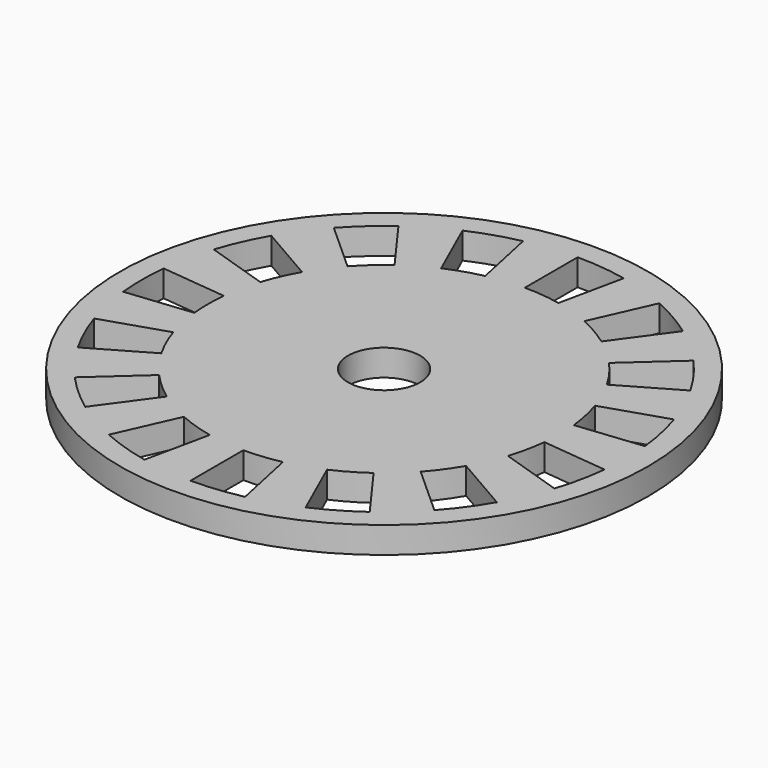
from build123d import *

# Parameters (mm, degrees)
F0_R     = 30
F0_R_2   = 4.1
F1_DEPTH = 3


with BuildPart() as f1:
    # F0 (on Top) → F1 (new body)
    with BuildSketch(Plane.XY):
        Circle(F0_R)
        with BuildLine():
            ThreePointArc((-16.164094, -22.247967), (-18.401092, -20.436483), (-20.436483, -18.401092))
            Line((-20.436483, -18.401092), (-14.862897, -13.382612))
            ThreePointArc((-14.862897, -13.382612), (-13.382612, -14.862897), (-11.755705, -16.18034))
            Line((-11.755705, -16.18034), (-16.164094, -22.247967))
        make_face(mode=Mode.SUBTRACT)
        with BuildLine():
            ThreePointArc((-5.717571, -26.899059), (-8.497967, -26.154054), (-11.185258, -25.1225))
            Line((-11.185258, -25.1225), (-8.134733, -18.270909))
            ThreePointArc((-8.134733, -18.270909), (-6.18034, -19.02113), (-4.158234, -19.562952))
            Line((-4.158234, -19.562952), (-5.717571, -26.899059))
        make_face(mode=Mode.SUBTRACT)
        with BuildLine():
            ThreePointArc((-23.815699, -13.75), (-25.1225, -11.185258), (-26.154054, -8.497967))
            Line((-26.154054, -8.497967), (-19.02113, -6.18034))
            ThreePointArc((-19.02113, -6.18034), (-18.270909, -8.134733), (-17.320508, -10))
            Line((-17.320508, -10), (-23.815699, -13.75))
        make_face(mode=Mode.SUBTRACT)
        with BuildLine():
            ThreePointArc((5.717571, -26.899059), (2.874533, -27.349352), (0, -27.5))
            Line((0, -27.5), (0, -20))
            ThreePointArc((0, -20), (2.090569, -19.890438), (4.158234, -19.562952))
            Line((4.158234, -19.562952), (5.717571, -26.899059))
        make_face(mode=Mode.SUBTRACT)
        with BuildLine():
            ThreePointArc((16.164094, -22.247967), (13.75, -23.815699), (11.185258, -25.1225))
            Line((11.185258, -25.1225), (8.134733, -18.270909))
            ThreePointArc((8.134733, -18.270909), (10, -17.320508), (11.755705, -16.18034))
            Line((11.755705, -16.18034), (16.164094, -22.247967))
        make_face(mode=Mode.SUBTRACT)
        with BuildLine():
            ThreePointArc((23.815699, -13.75), (22.247967, -16.164094), (20.436483, -18.401092))
            Line((20.436483, -18.401092), (14.862897, -13.382612))
            ThreePointArc((14.862897, -13.382612), (16.18034, -11.755705), (17.320508, -10))
            Line((17.320508, -10), (23.815699, -13.75))
        make_face(mode=Mode.SUBTRACT)
        with BuildLine():
            ThreePointArc((27.349352, -2.874533), (26.899059, -5.717571), (26.154054, -8.497967))
            Line((26.154054, -8.497967), (19.02113, -6.18034))
            ThreePointArc((19.02113, -6.18034), (19.562952, -4.158234), (19.890438, -2.090569))
            Line((19.890438, -2.090569), (27.349352, -2.874533))
        make_face(mode=Mode.SUBTRACT)
        with BuildLine():
            ThreePointArc((-27.349352, -2.874533), (-27.5, 0), (-27.349352, 2.874533))
            Line((-27.349352, 2.874533), (-19.890438, 2.090569))
            ThreePointArc((-19.890438, 2.090569), (-20, 0), (-19.890438, -2.090569))
            Line((-19.890438, -2.090569), (-27.349352, -2.874533))
        make_face(mode=Mode.SUBTRACT)
        with BuildLine():
            ThreePointArc((-26.154054, 8.497967), (-25.1225, 11.185258), (-23.815699, 13.75))
            Line((-23.815699, 13.75), (-17.320508, 10))
            ThreePointArc((-17.320508, 10), (-18.270909, 8.134733), (-19.02113, 6.18034))
            Line((-19.02113, 6.18034), (-26.154054, 8.497967))
        make_face(mode=Mode.SUBTRACT)
        with BuildLine():
            ThreePointArc((-20.436483, 18.401092), (-18.401092, 20.436483), (-16.164094, 22.247967))
            Line((-16.164094, 22.247967), (-11.755705, 16.18034))
            ThreePointArc((-11.755705, 16.18034), (-13.382612, 14.862897), (-14.862897, 13.382612))
            Line((-14.862897, 13.382612), (-20.436483, 18.401092))
        make_face(mode=Mode.SUBTRACT)
        with BuildLine():
            ThreePointArc((-11.185258, 25.1225), (-8.497967, 26.154054), (-5.717571, 26.899059))
            Line((-5.717571, 26.899059), (-4.158234, 19.562952))
            ThreePointArc((-4.158234, 19.562952), (-6.18034, 19.02113), (-8.134733, 18.270909))
            Line((-8.134733, 18.270909), (-11.185258, 25.1225))
        make_face(mode=Mode.SUBTRACT)
        Circle(F0_R_2, mode=Mode.SUBTRACT)
        with BuildLine():
            ThreePointArc((26.154054, 8.497967), (26.899059, 5.717571), (27.349352, 2.874533))
            Line((27.349352, 2.874533), (19.890438, 2.090569))
            ThreePointArc((19.890438, 2.090569), (19.562952, 4.158234), (19.02113, 6.18034))
            Line((19.02113, 6.18034), (26.154054, 8.497967))
        make_face(mode=Mode.SUBTRACT)
        with BuildLine():
            ThreePointArc((20.436483, 18.401092), (22.247967, 16.164094), (23.815699, 13.75))
            Line((23.815699, 13.75), (17.320508, 10))
            ThreePointArc((17.320508, 10), (16.18034, 11.755705), (14.862897, 13.382612))
            Line((14.862897, 13.382612), (20.436483, 18.401092))
        make_face(mode=Mode.SUBTRACT)
        with BuildLine():
            ThreePointArc((11.185258, 25.1225), (13.75, 23.815699), (16.164094, 22.247967))
            Line((16.164094, 22.247967), (11.755705, 16.18034))
            ThreePointArc((11.755705, 16.18034), (10, 17.320508), (8.134733, 18.270909))
            Line((8.134733, 18.270909), (11.185258, 25.1225))
        make_face(mode=Mode.SUBTRACT)
        with BuildLine():
            Line((0, 20), (0, 27.5))
            ThreePointArc((0, 27.5), (2.874533, 27.349352), (5.717571, 26.899059))
            Line((5.717571, 26.899059), (4.158234, 19.562952))
            ThreePointArc((4.158234, 19.562952), (2.090569, 19.890438), (0, 20))
        make_face(mode=Mode.SUBTRACT)
    extrude(amount=F1_DEPTH)


solid = f1.part
